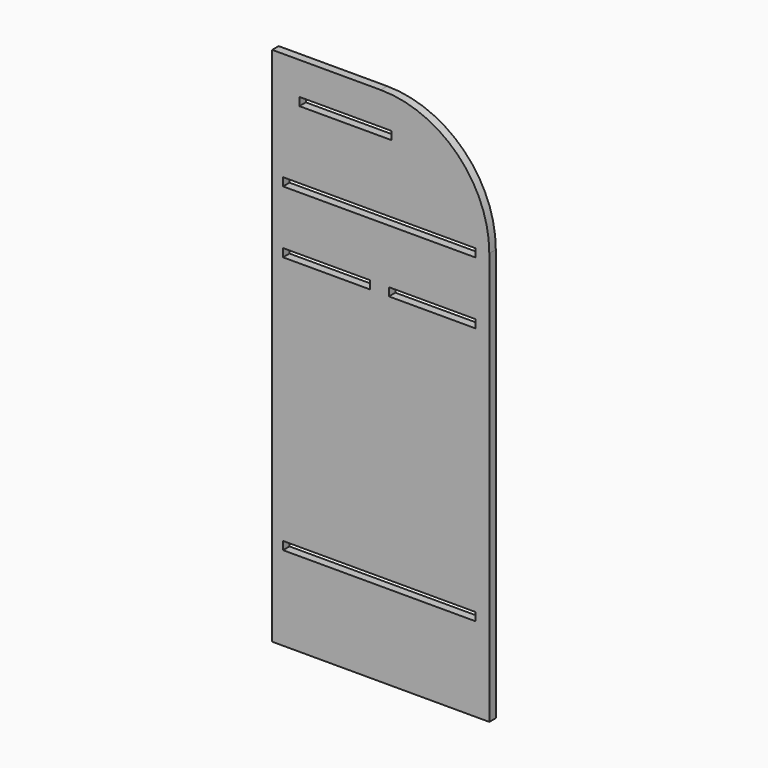
from build123d import *

# Parameters (mm, degrees)
F0_W     = 450.85
F0_H     = 19.05
F0_W_2   = 203.2
F0_W_3   = 215.9
F1_DEPTH = 19.05


with BuildPart() as f1:
    # F0 (on Front) → F1 (new body)
    with BuildSketch(Plane.XZ):
        with BuildLine():
            Line((462.228538, 598.447878), (208.228538, 598.447878))
            Line((208.228538, 598.447878), (208.228538, -620.752122))
            Line((208.228538, -620.752122), (716.228538, -620.752122))
            Line((716.228538, -620.752122), (716.228538, 344.447878))
            ThreePointArc((716.228538, 344.447878), (641.833661, 524.053), (462.228538, 598.447878))
        make_face()
        with Locations((459.053538, -414.377122)):
            Rectangle(F0_W, F0_H, mode=Mode.SUBTRACT)
        with Locations((335.228538, 188.872878)):
            Rectangle(F0_W_2, F0_H, mode=Mode.SUBTRACT)
        with Locations((459.053538, 334.922878)):
            Rectangle(F0_W, F0_H, mode=Mode.SUBTRACT)
        with Locations((379.678538, 512.722878)):
            Rectangle(F0_W_3, F0_H, mode=Mode.SUBTRACT)
        with Locations((582.878538, 188.872878)):
            Rectangle(F0_W_2, F0_H, mode=Mode.SUBTRACT)
    extrude(amount=F1_DEPTH)


solid = f1.part
